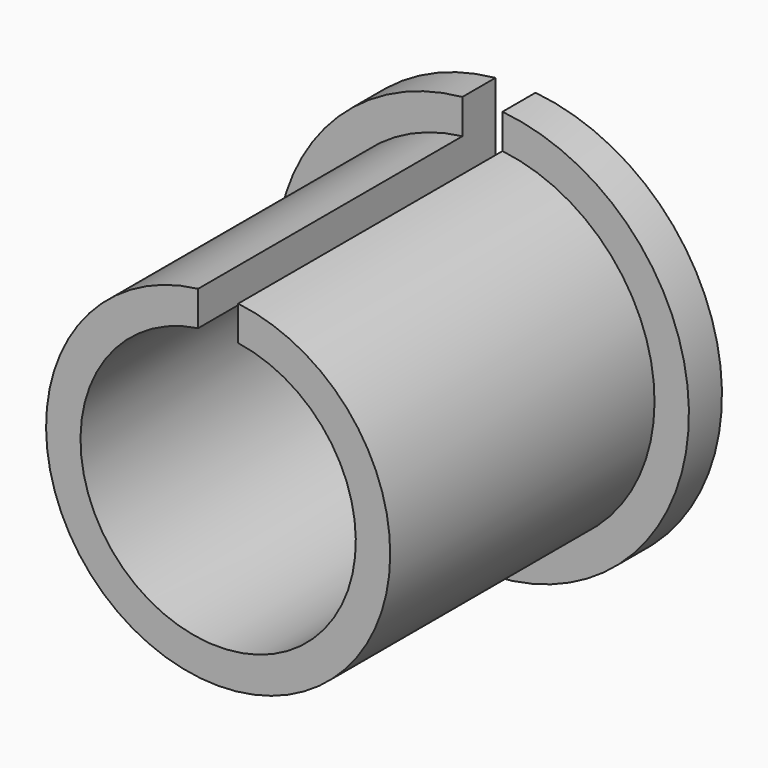
from build123d import *

# Parameters (mm, degrees)
F1_DEPTH = 27
F2_DEPTH = 3


with BuildPart() as f1:
    # F0 (on Front) → F1 (new body)
    with BuildSketch(Plane.XZ):
        with BuildLine():
            ThreePointArc((1.456403, 9.893376), (0, -10), (-1.456403, 9.893376))
            Line((-1.456403, 9.893376), (-1.456403, 12.414866))
            ThreePointArc((-1.456403, 12.414866), (0, -12.5), (1.456403, 12.414866))
            Line((1.456403, 12.414866), (1.456403, 9.893376))
        make_face()
    extrude(amount=F1_DEPTH)

    # F0 (on Front) → F2 (join)
    with BuildSketch(Plane.XZ):
        with BuildLine():
            ThreePointArc((1.456403, 12.414866), (0, -12.5), (-1.456403, 12.414866))
            Line((-1.456403, 12.414866), (-1.456403, 14.929129))
            ThreePointArc((-1.456403, 14.929129), (0, -15), (1.456403, 14.929129))
            Line((1.456403, 14.929129), (1.456403, 12.414866))
        make_face()
    extrude(amount=F2_DEPTH)


solid = f1.part
